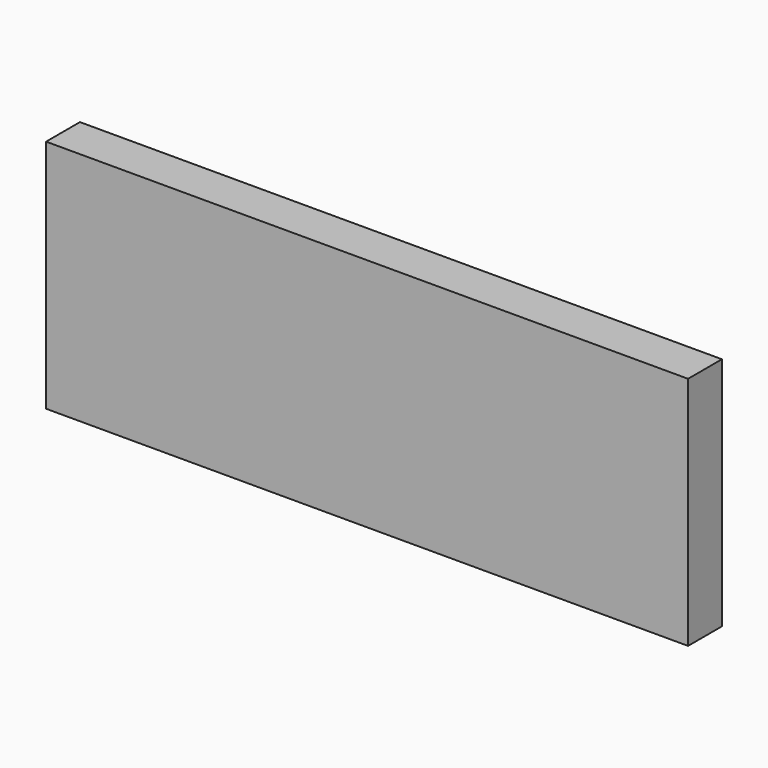
from build123d import *

# Parameters (mm, degrees)
SKETCH_W  = 273
SKETCH_H  = 100
PAD_DEPTH = 18


with BuildPart() as part:
    # Sketch → Pad (new body)
    with BuildSketch(Plane.XZ):
        with Locations((-136.5, 50)):
            Rectangle(SKETCH_W, SKETCH_H)
    extrude(amount=PAD_DEPTH)


solid = part.part
